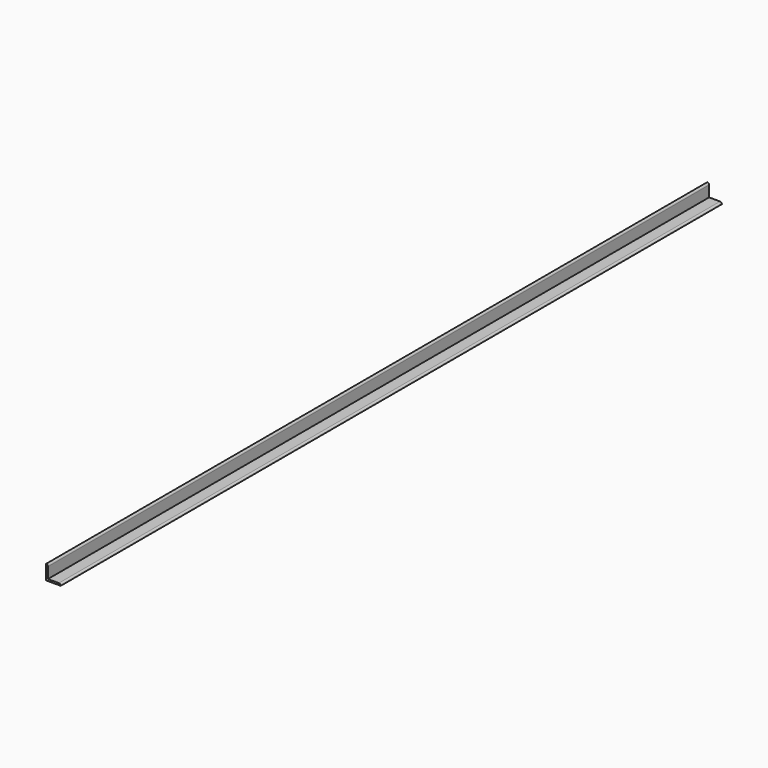
from build123d import *

# Parameters (mm, degrees)
F1_DEPTH = 2870.2


with BuildPart() as f1:
    # F0 (on Front) → F1 (new body)
    with BuildSketch(Plane.XZ):
        with BuildLine():
            Line((0, 50.8), (0, 0))
            Line((0, 0), (50.8, 0))
            ThreePointArc((50.8, 0), (48.940128, 4.490128), (44.45, 6.35))
            Line((44.45, 6.35), (6.35, 6.35))
            Line((6.35, 6.35), (6.35, 44.45))
            ThreePointArc((6.35, 44.45), (4.490128, 48.940128), (0, 50.8))
        make_face()
    extrude(amount=F1_DEPTH)


solid = f1.part
